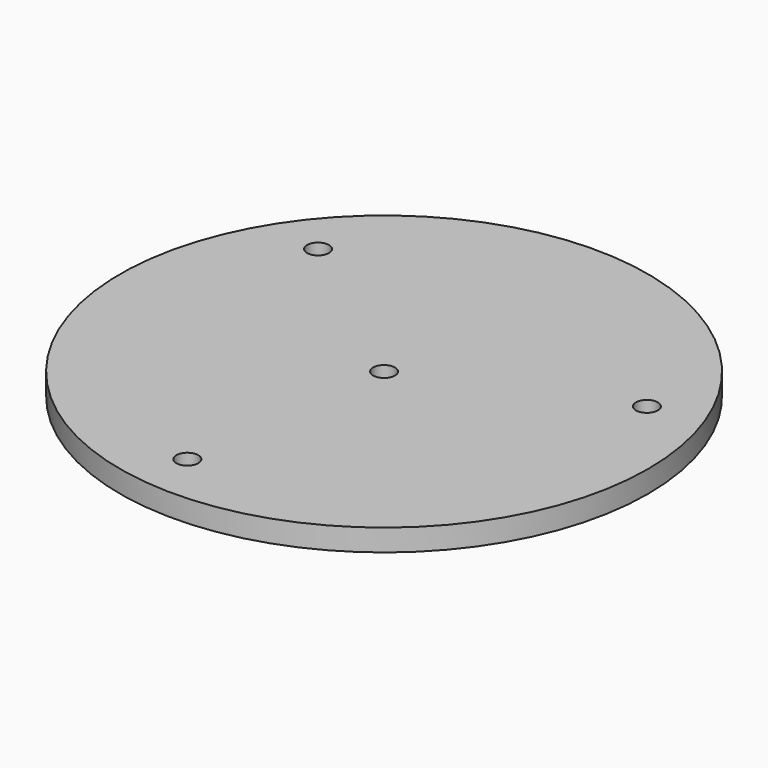
from build123d import *

# Parameters (mm, degrees)
SKETCH_R     = 24.107232
SKETCH_R_2   = 1
PAD_DEPTH    = 2
SKETCH001_R  = 2.5
PAD001_DEPTH = 4
CHAMFER_SIZE = 0.5


with BuildPart() as part:
    # Sketch → Pad (new body)
    with BuildSketch(Plane.XY):
        with Locations((23.5, 39.5)):
            Circle(SKETCH_R)
        with Locations((41.497925, 47.004978)):
            Circle(SKETCH_R_2, mode=Mode.SUBTRACT)
        with Locations((8.001536, 51.334171)):
            Circle(SKETCH_R_2, mode=Mode.SUBTRACT)
        with Locations((21.000539, 20.160851)):
            Circle(SKETCH_R_2, mode=Mode.SUBTRACT)
        with Locations((23.5, 39.5)):
            Circle(SKETCH_R_2, mode=Mode.SUBTRACT)
    extrude(amount=PAD_DEPTH)

    # Sketch001 (on Face7 of Pad) → Pad001 (join)
    with BuildSketch(Plane.XY.offset(2)):
        with Locations((28.5, 34.5)):
            Circle(SKETCH001_R)
        with Locations((28.5, 54.5)):
            Circle(SKETCH001_R)
        with Locations((8.5, 44.5)):
            Circle(SKETCH001_R)
    extrude(amount=-PAD001_DEPTH)

    # Chamfer
    chamfer_edges = [part.edges().sort_by_distance(p)[0] for p in [
        (26, 34.5, -2),
        (26, 54.5, -2),
        (6, 44.5, -2),
    ]]
    chamfer(chamfer_edges, length=CHAMFER_SIZE)


solid = part.part
